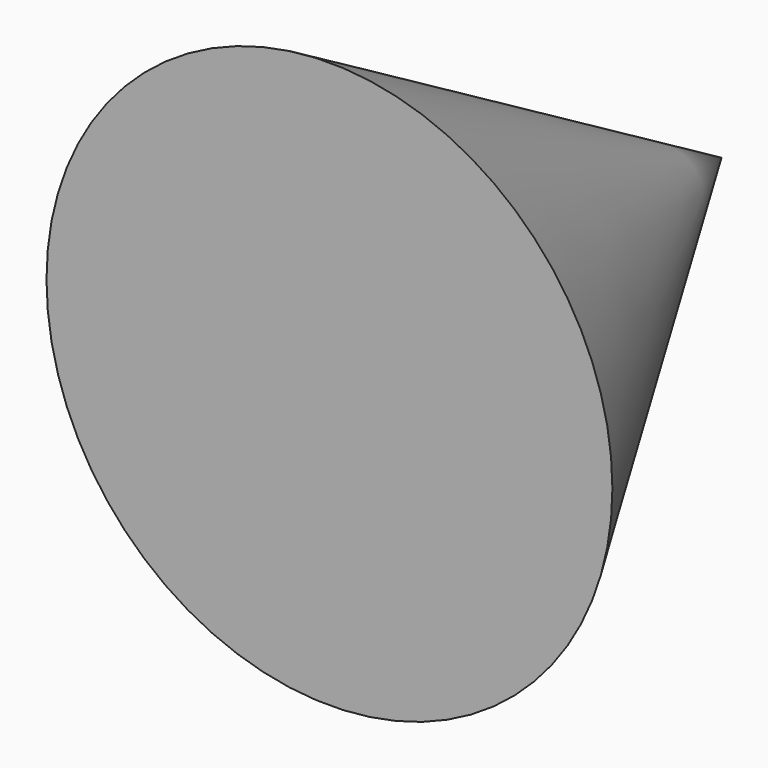
from build123d import *


with BuildPart() as f1:
    # F0 (on Top) → F1 (revolve)
    with BuildSketch(Plane.XY):
        Polygon((0, 0), (0, 21.9970452561), (-12.7, 0), align=None)
    revolve(axis=Axis((0, 10.9985226281, 0), (0, -1, 0)))

    # F0 (on Top) → F2 (revolve)
    with BuildSketch(Plane.XY):
        Polygon((0, 0), (0, 21.9970452561), (-12.7, 0), align=None)
    revolve(axis=Axis((0, 10.9985226281, 0), (0, -1, 0)))


solid = f1.part
